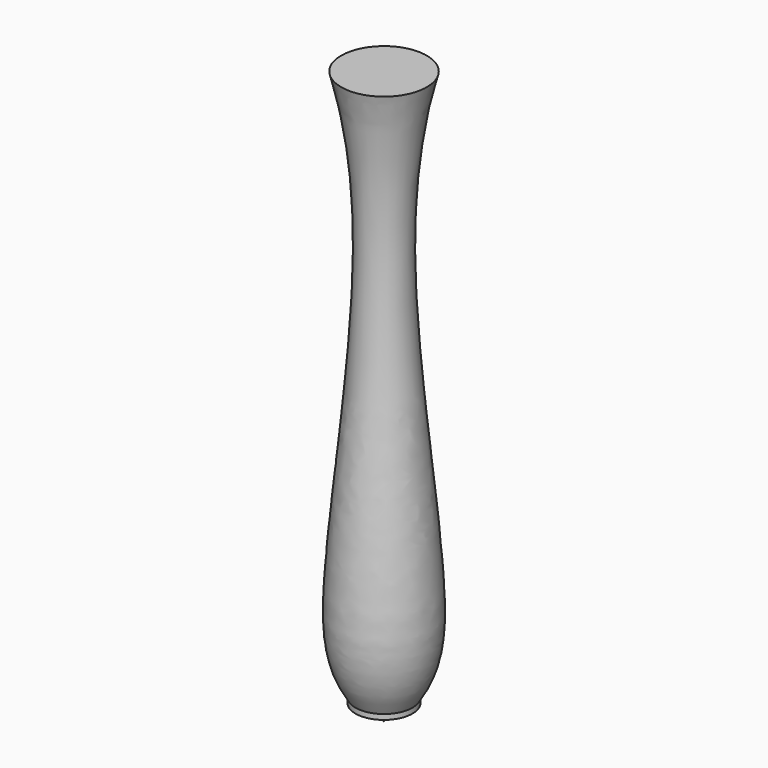
from build123d import *


with BuildPart() as f1:
    # F0 (on Front) → F1 (revolve)
    with BuildSketch(Plane.XZ):
        with BuildLine():
            Line((-2.2659471724, 6.7977611907), (0, 0))
            Line((0, 0), (0, 234.8430901766))
            Line((0, 234.8430901766), (-17.5451431423, 234.8430901766))
            add(Edge.make_bspline(
                [(-11.6969980299, 8.9236395609), (-19.5079684147, 20.7681497247), (-20.9629812549, 50.8577379023), (-9.6866520851, 136.4300182008), (-8.3615290853, 200.5683137411), (-17.5451431423, 234.8430901766)],
                knots=[0, 0, 0, 0, 0.249121196, 0.6075993354, 1, 1, 1, 1], degree=3))
            Line((-11.6969980299, 8.9236395609), (-11.6969980299, 6.7977611907))
            Line((-11.6969980299, 6.7977611907), (-2.2659471724, 6.7977611907))
        make_face()
    revolve(axis=Axis((0, 0, 117.4215450883), (0, 0, -1)))


solid = f1.part
